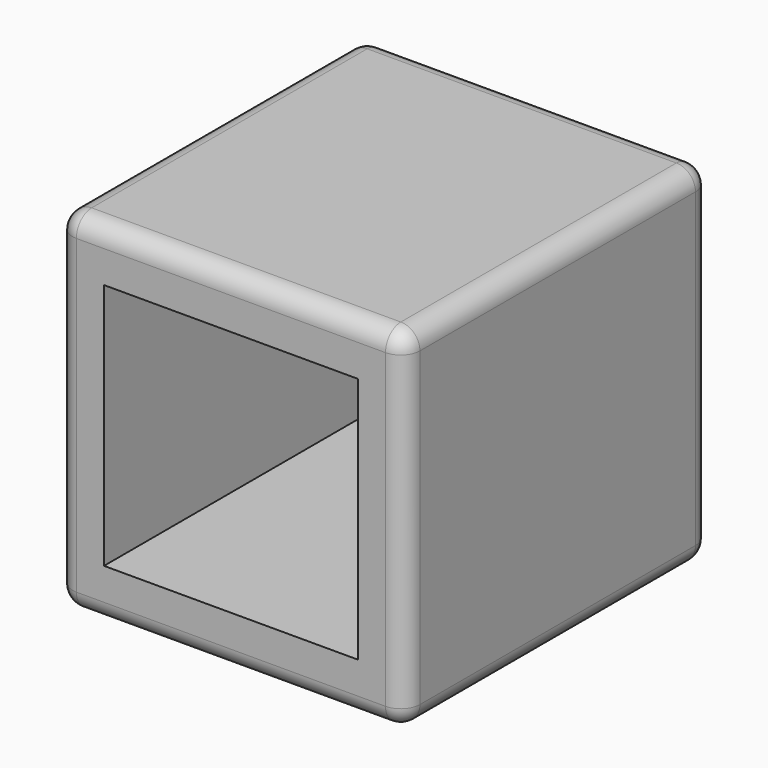
from build123d import *

# Parameters (mm, degrees)
F0_W     = 115.299716
F0_H     = 116.0388
F0_W_2   = 84.257484
F0_H_2   = 82.040132
F1_DEPTH = 127
F2_R     = 6.35


with BuildPart() as f1:
    # F0 (on Front) → F1 (new body)
    with BuildSketch(Plane.XZ):
        Rectangle(F0_W, F0_H)
        Rectangle(F0_W_2, F0_H_2, mode=Mode.SUBTRACT)
    extrude(amount=F1_DEPTH)

    # F2
    f2_edges = [f1.edges().sort_by_distance(p)[0] for p in [
        (-57.649858, -63.5, 58.0194),
        (-57.649858, -63.5, -58.0194),
        (-57.649858, 0, 0),
        (-57.649858, -127, 0),
        (57.649858, -63.5, -58.0194),
        (0, 0, -58.0194),
        (0, -127, -58.0194),
        (57.649858, -63.5, 58.0194),
        (57.649858, 0, 0),
        (57.649858, -127, 0),
        (0, 0, 58.0194),
        (0, -127, 58.0194),
    ]]
    fillet(f2_edges, radius=F2_R)


solid = f1.part
